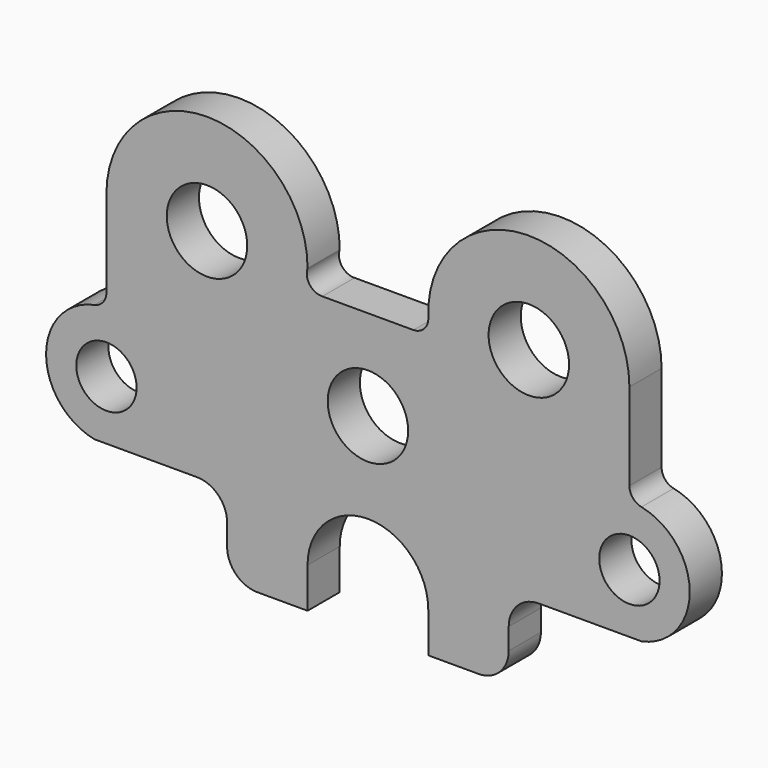
from build123d import *

# Parameters (mm, degrees)
F0_R     = 9.525
F0_R_2   = 12.7
F1_DEPTH = 12.7


with BuildPart() as f1:
    # F0 (on Front) → F1 (new body)
    with BuildSketch(Plane.XZ):
        with BuildLine():
            ThreePointArc((19.080032, 33.544383), (17.7775, 30.059917), (14.366766, 28.575))
            Line((14.366766, 28.575), (-14.366766, 28.575))
            ThreePointArc((-14.366766, 28.575), (-18.355036, 30.487573), (-19.050075, 34.855771))
            ThreePointArc((-19.050075, 34.855771), (-50.765385, 66.674981), (-82.55, 34.925))
            Line((-82.55, 34.925), (-82.55, 7.45639))
            ThreePointArc((-82.55, 7.45639), (-83.623483, 4.44432), (-86.36, 2.790112))
            ThreePointArc((-86.36, 2.790112), (-101.6, -15.875), (-86.36, -34.540112))
            Line((-86.36, -34.540112), (-53.975, -34.540112))
            ThreePointArc((-53.975, -34.540112), (-47.239808, -37.32992), (-44.45, -44.065112))
            Line((-44.45, -44.065112), (-44.45, -50.8))
            ThreePointArc((-44.45, -50.8), (-41.660192, -57.535192), (-34.925, -60.325))
            Line((-34.925, -60.325), (-19.05, -60.325))
            Line((-19.05, -60.325), (-19.05, -47.625))
            ThreePointArc((-19.05, -47.625), (-13.470384, -34.154616), (0, -28.575))
            ThreePointArc((0, -28.575), (13.470384, -34.154616), (19.05, -47.625))
            Line((19.05, -47.625), (19.05, -60.325))
            Line((19.05, -60.325), (34.925, -60.325))
            ThreePointArc((34.925, -60.325), (41.660192, -57.535192), (44.45, -50.8))
            Line((44.45, -50.8), (44.45, -44.065112))
            ThreePointArc((44.45, -44.065112), (47.239808, -37.32992), (53.975, -34.540112))
            Line((53.975, -34.540112), (86.36, -34.540112))
            ThreePointArc((86.36, -34.540112), (101.6, -15.875), (86.36, 2.790112))
            ThreePointArc((86.36, 2.790112), (83.623483, 4.44432), (82.55, 7.45639))
            Line((82.55, 7.45639), (82.55, 34.925))
            ThreePointArc((82.55, 34.925), (50.109528, 66.667491), (19.080032, 33.544383))
        make_face()
        with Locations((-82.55, -15.875)):
            Circle(F0_R, mode=Mode.SUBTRACT)
        Circle(F0_R_2, mode=Mode.SUBTRACT)
        with Locations((82.55, -15.875)):
            Circle(F0_R, mode=Mode.SUBTRACT)
        with Locations((-50.8, 34.925)):
            Circle(F0_R_2, mode=Mode.SUBTRACT)
        with Locations((50.8, 34.925)):
            Circle(F0_R_2, mode=Mode.SUBTRACT)
    extrude(amount=F1_DEPTH)


solid = f1.part
